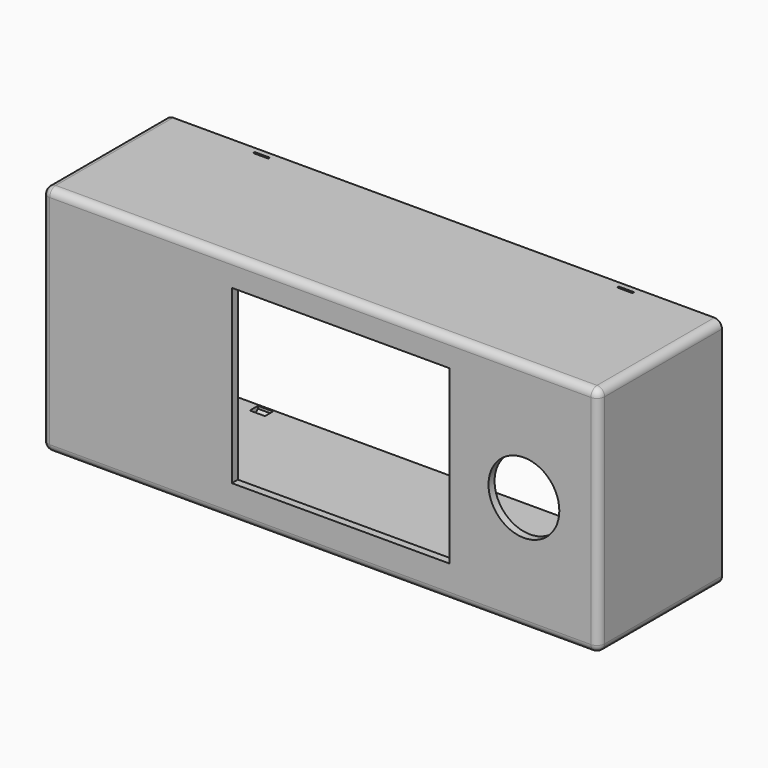
from build123d import *

# Parameters (mm, degrees)
TUBE001_R                  = 3
TUBE001_R_2                = 1.3
TUBE001_DEPTH              = 4
TUBE002_R                  = 3
TUBE002_R_2                = 1.3
TUBE002_DEPTH              = 4
TUBE003_R                  = 3
TUBE003_R_2                = 1.3
TUBE003_DEPTH              = 4
TUBE_R                     = 3
TUBE_R_2                   = 1.3
TUBE_DEPTH                 = 4
CYLINDER007_R              = 2
CYLINDER007_DEPTH          = 10
CYLINDER008_R              = 2
CYLINDER008_DEPTH          = 10
CYLINDER009_R              = 2
CYLINDER009_DEPTH          = 10
CYLINDER010_R              = 2
CYLINDER010_DEPTH          = 10
CYLINDER006_R              = 2
CYLINDER006_DEPTH          = 10
BOX026_W                   = 3
BOX026_H                   = 46
BOX026_DEPTH               = 2
CHAMFER001_SIZE            = 0.9
CHAMFER001_PLACEMENT_ANGLE = 90
BOX025_W                   = 3
BOX025_H                   = 46
BOX025_DEPTH               = 2
CHAMFER_SIZE               = 0.9
CHAMFER_PLACEMENT_ANGLE    = 90
CYLINDER005_R              = 2.5
CYLINDER005_DEPTH          = 10
CYLINDER001_R              = 7
CYLINDER001_DEPTH          = 10
BOX001_W                   = 43
BOX001_H                   = 10
BOX001_DEPTH               = 34
BOX_W                      = 107
BOX_H                      = 29
BOX_DEPTH                  = 43
THICKNESS_T                = 1.5


with BuildPart() as tube001:
    # Tube001 → Tube001 (new body)
    with BuildSketch(Plane(origin=(6.9, 4, 35.9), x_dir=(1, 0, 0), z_dir=(0, -1, 0))):
        Circle(TUBE001_R)
        Circle(TUBE001_R_2, mode=Mode.SUBTRACT)
    extrude(amount=TUBE001_DEPTH)


with BuildPart() as tube002:
    # Tube002 → Tube002 (new body)
    with BuildSketch(Plane(origin=(99.5, 4, 6.9), x_dir=(1, 0, 0), z_dir=(0, -1, 0))):
        Circle(TUBE002_R)
        Circle(TUBE002_R_2, mode=Mode.SUBTRACT)
    extrude(amount=TUBE002_DEPTH)


with BuildPart() as tube003:
    # Tube003 → Tube003 (new body)
    with BuildSketch(Plane(origin=(99.5, 4, 35.9), x_dir=(1, 0, 0), z_dir=(0, -1, 0))):
        Circle(TUBE003_R)
        Circle(TUBE003_R_2, mode=Mode.SUBTRACT)
    extrude(amount=TUBE003_DEPTH)


with BuildPart() as fusion005:
    # Tube → Tube (new body)
    with BuildSketch(Plane(origin=(6.9, 4, 6.9), x_dir=(1, 0, 0), z_dir=(0, -1, 0))):
        Circle(TUBE_R)
        Circle(TUBE_R_2, mode=Mode.SUBTRACT)
    extrude(amount=TUBE_DEPTH)

    # Fusion005: union Tube001, Tube002, Tube003
    add(tube001.part)
    add(tube002.part)
    add(tube003.part)


with BuildPart() as cilindro007:
    # Cylinder007 → Cylinder007 (new body)
    with BuildSketch(Plane(origin=(5.4, 8.6, 24), x_dir=(0, 0, 1), z_dir=(-1, 0, 0))):
        Circle(CYLINDER007_R)
    extrude(amount=CYLINDER007_DEPTH)


with BuildPart() as cilindro008:
    # Cylinder008 → Cylinder008 (new body)
    with BuildSketch(Plane(origin=(5.4, 8.6, 19), x_dir=(0, 0, 1), z_dir=(-1, 0, 0))):
        Circle(CYLINDER008_R)
    extrude(amount=CYLINDER008_DEPTH)


with BuildPart() as cilindro009:
    # Cylinder009 → Cylinder009 (new body)
    with BuildSketch(Plane(origin=(5.4, 8.6, 14), x_dir=(0, 0, 1), z_dir=(-1, 0, 0))):
        Circle(CYLINDER009_R)
    extrude(amount=CYLINDER009_DEPTH)


with BuildPart() as cilindro010:
    # Cylinder010 → Cylinder010 (new body)
    with BuildSketch(Plane(origin=(5.4, 8.6, 9), x_dir=(0, 0, 1), z_dir=(-1, 0, 0))):
        Circle(CYLINDER010_R)
    extrude(amount=CYLINDER010_DEPTH)


with BuildPart() as fusion004:
    # Cylinder006 → Cylinder006 (new body)
    with BuildSketch(Plane(origin=(5.4, 8.6, 29), x_dir=(0, 0, 1), z_dir=(-1, 0, 0))):
        Circle(CYLINDER006_R)
    extrude(amount=CYLINDER006_DEPTH)

    # Fusion004: union Cilindro007, Cilindro008, Cilindro009, Cilindro010
    add(cilindro007.part)
    add(cilindro008.part)
    add(cilindro009.part)
    add(cilindro010.part)


with BuildPart() as chamfer001:
    # Box026 → Box026 (new body)
    with BuildSketch(Plane(origin=(5, -1, -6), x_dir=(1, 0, 0), z_dir=(0, 0, 1))):
        with Locations((1.5, 23)):
            Rectangle(BOX026_W, BOX026_H)
    extrude(amount=BOX026_DEPTH)

    # Chamfer001
    chamfer001_edges = [chamfer001.edges().sort_by_distance(p)[0] for p in [
        (6.5, -1, -6),
        (6.5, -1, -4),
        (6.5, 45, -6),
        (6.5, 45, -4),
    ]]
    chamfer(chamfer001_edges, length=CHAMFER001_SIZE)


with BuildPart() as chamfer001_1:
    # Chamfer001 placement: moved
    add(chamfer001.part.moved(Location((84, 23.7, -0.4))).rotate(Axis((84, 23.7, -0.4), (1, 0, 0)), CHAMFER001_PLACEMENT_ANGLE))


with BuildPart() as fusion:
    # Box025 → Box025 (new body)
    with BuildSketch(Plane(origin=(5, -1, -6), x_dir=(1, 0, 0), z_dir=(0, 0, 1))):
        with Locations((1.5, 23)):
            Rectangle(BOX025_W, BOX025_H)
    extrude(amount=BOX025_DEPTH)

    # Chamfer
    chamfer_edges = [fusion.edges().sort_by_distance(p)[0] for p in [
        (6.5, -1, -6),
        (6.5, -1, -4),
        (6.5, 45, -6),
        (6.5, 45, -4),
    ]]
    chamfer(chamfer_edges, length=CHAMFER_SIZE)


with BuildPart() as fusion_1:
    # Chamfer placement: moved
    add(fusion.part.moved(Location((12, 23.7, -0.4))).rotate(Axis((12, 23.7, -0.4), (1, 0, 0)), CHAMFER_PLACEMENT_ANGLE))

    # Fusion: union Chamfer001
    add(chamfer001_1.part)


with BuildPart() as cilindro005:
    # Cylinder005 → Cylinder005 (new body)
    with BuildSketch(Plane(origin=(3, 19.3, 36.4), x_dir=(0, 0, 1), z_dir=(-1, 0, 0))):
        Circle(CYLINDER005_R)
    extrude(amount=CYLINDER005_DEPTH)


with BuildPart() as cilindro001:
    # Cylinder001 → Cylinder001 (new body)
    with BuildSketch(Plane(origin=(93.75, 1, 21.25), x_dir=(1, 0, 0), z_dir=(0, -1, 0))):
        Circle(CYLINDER001_R)
    extrude(amount=CYLINDER001_DEPTH)


with BuildPart() as cubo001:
    # Box001 → Box001 (new body)
    with BuildSketch(Plane(origin=(36, -1, 5), x_dir=(1, 0, 0), z_dir=(0, 0, 1))):
        with Locations((21.5, 5)):
            Rectangle(BOX001_W, BOX001_H)
    extrude(amount=BOX001_DEPTH)


with BuildPart() as caixa:
    # Box → Box (new body)
    with BuildSketch(Plane.XY):
        with Locations((53.5, 14.5)):
            Rectangle(BOX_W, BOX_H)
    extrude(amount=BOX_DEPTH)

    # Thickness
    thickness_openings = [caixa.faces().sort_by_distance(p)[0] for p in [
        (53.5, 29, 21.5),
    ]]
    offset(amount=THICKNESS_T, openings=thickness_openings)


with BuildPart() as caixa_1:
    # Thickness placement: moved
    add(caixa.part.moved(Location((0, 1, 0))))

    # Cut: cut Cubo001
    add(cubo001.part, mode=Mode.SUBTRACT)

    # Cut001: cut Cilindro001
    add(cilindro001.part, mode=Mode.SUBTRACT)

    # Cut002: cut Cilindro005
    add(cilindro005.part, mode=Mode.SUBTRACT)

    # Cut003: cut Fusion
    add(fusion_1.part, mode=Mode.SUBTRACT)

    # Cut005: cut Fusion004
    add(fusion004.part, mode=Mode.SUBTRACT)

    # Fusion006: union Fusion005
    add(fusion005.part)


solid = caixa_1.part
